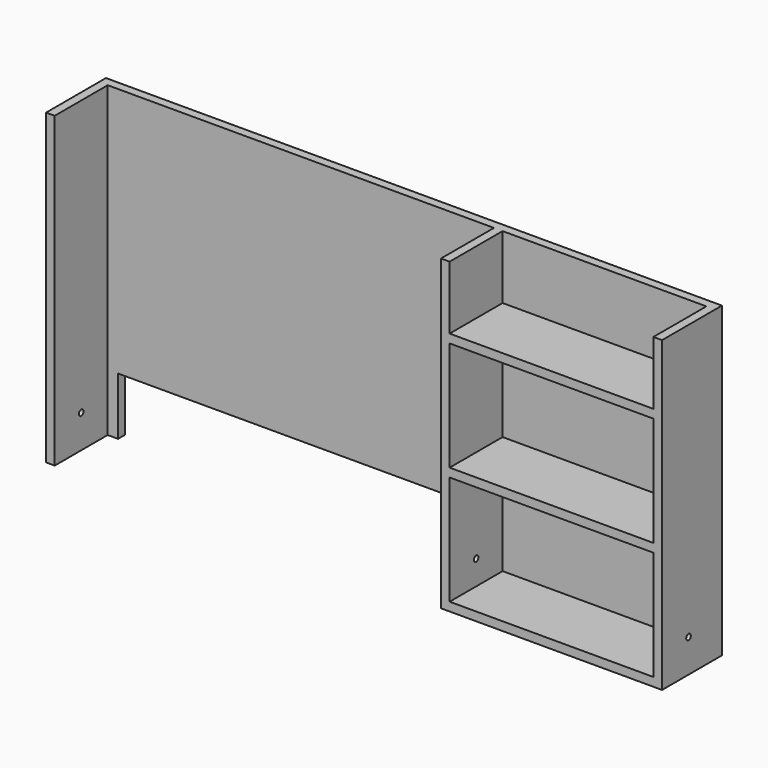
from build123d import *

# Parameters (mm, degrees)
F0_W      = 701
F0_H      = 553
F1_DEPTH  = 15
F3_DEPTH  = 115
F5_D      = 10
F6_W      = 130
F6_H      = 553
F6_R      = 5
F7_DEPTH  = 369
F8_W      = 354
F8_H      = 113
F8_H_2    = 190
F9_DEPTH  = 115
F10_W     = 1070
F10_H     = 130
F11_DEPTH = 18
F12_W     = 635
F12_H     = 15
F13_DEPTH = 100
F15_D     = 8


with BuildPart() as f1:
    # F0 (on Front) → F1 (new body)
    with BuildSketch(Plane.XZ):
        with Locations((350.5, 276.5)):
            Rectangle(F0_W, F0_H)
    extrude(amount=-F1_DEPTH)

    # F2 (on face) → F3 (join)
    with BuildSketch(Plane.XZ):
        Polygon((0, 553), (0, 0), (15, 0), (15, 538), (686, 538), (686, 0), (701, 0), (701, 553), align=None)
    extrude(amount=F3_DEPTH)

    # F5 (through all)
    with Locations(Plane(origin=(0, 0, 0), x_dir=(0, -1, 0), z_dir=(-1, 0, 0))):
        with Locations((57.5, 57.5)):
            Hole(F5_D / 2)

    # F6 (on face) → F7 (join)
    with BuildSketch(Plane.YZ.offset(701)):
        with Locations((-50, 276.5)):
            Rectangle(F6_W, F6_H)
        with Locations((-57.5, 57.5)):
            Circle(F6_R, mode=Mode.SUBTRACT)
    extrude(amount=F7_DEPTH)

    # F8 (on face) → F9 (cut, through all)
    with BuildSketch(Plane.XZ.offset(115)):
        with Locations((878, 481.5)):
            Rectangle(F8_W, F8_H)
        with Locations((878, 315)):
            Rectangle(F8_W, F8_H_2)
        with Locations((878, 110)):
            Rectangle(F8_W, F8_H_2)
    extrude(amount=-F9_DEPTH, mode=Mode.SUBTRACT)

    # F10 (on face) → F11 (cut)
    with BuildSketch(Plane.XY.offset(553)):
        with Locations((535, -50)):
            Rectangle(F10_W, F10_H)
    extrude(amount=-F11_DEPTH, mode=Mode.SUBTRACT)

    # F12 (on face) → F13 (cut)
    with BuildSketch(Plane(origin=(0, 0, 0), x_dir=(1, 0, 0), z_dir=(0, 0, -1))):
        with Locations((350.5, -7.5)):
            Rectangle(F12_W, F12_H)
    extrude(amount=-F13_DEPTH, mode=Mode.SUBTRACT)

    # F15 (through all)
    with Locations(Plane(origin=(0, 15, 0), x_dir=(-1, 0, 0), z_dir=(0, 1, 0))):
        with Locations((-649, 345)):
            Hole(F15_D / 2)


solid = f1.part
